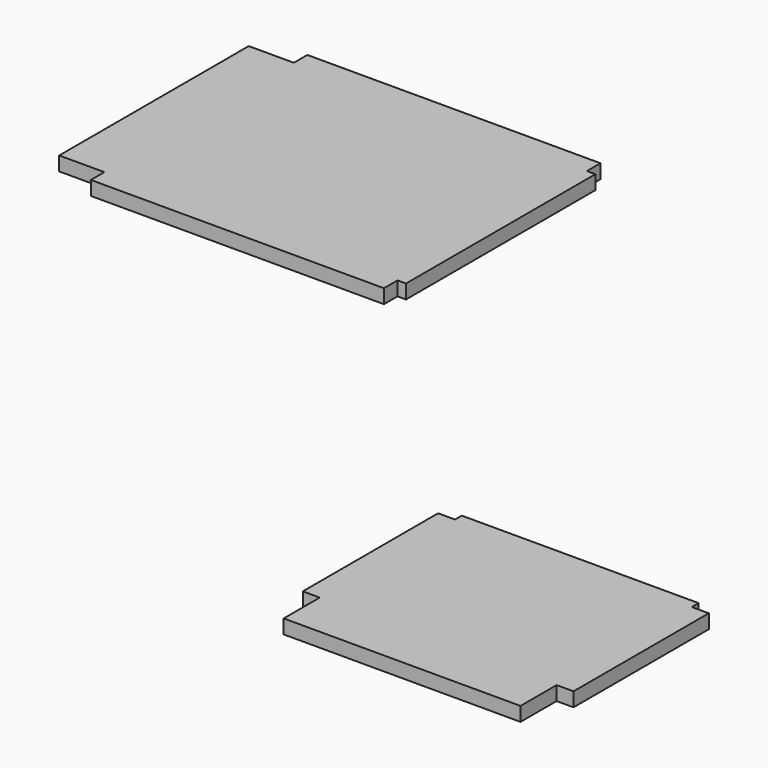
from build123d import *

# Parameters (mm, degrees)
F1_DEPTH = 15.875


with BuildPart() as f1:
    # F0 (on Top) → F1 (new body)
    with BuildSketch(Plane.XY):
        Polygon((209.55, -374.65), (209.55, -425.45), (476.25, -425.45), (476.25, -374.65), (495.3, -374.65), (495.3, -184.260472), (476.25, -184.260472), (476.25, -174.735472), (209.55, -174.735472), (209.55, -184.260472), (190.5, -184.260472), (190.5, -374.65), align=None)
        Polygon((-114.410472, 425.45), (-444.5, 425.45), (-444.5, 406.4), (-495.3, 406.4), (-495.3, 139.7), (-444.5, 139.7), (-444.5, 120.65), (-114.410472, 120.65), (-114.410472, 139.7), (-104.885472, 139.7), (-104.885472, 406.4), (-114.410472, 406.4), align=None)
    extrude(amount=F1_DEPTH)


solid = f1.part
